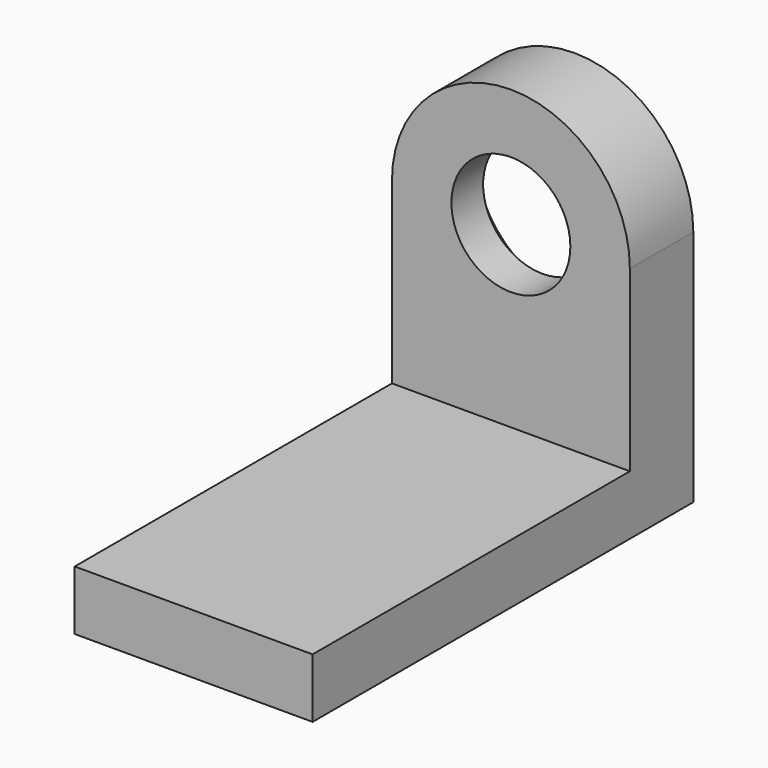
from build123d import *

# Parameters (mm, degrees)
F0_R     = 15
F1_DEPTH = 20
F2_W     = 60
F2_H     = 15
F3_DEPTH = 100
F4_SIZE  = 10


with BuildPart() as f1:
    # F0 (on Front) → F1 (new body)
    with BuildSketch(Plane.XZ):
        with BuildLine():
            Line((-30, -49.717317), (30, -49.717317))
            Line((30, -49.717317), (30, 10.282683))
            ThreePointArc((30, 10.282683), (0, 40.282683), (-30, 10.282683))
            Line((-30, 10.282683), (-30, -49.717317))
        make_face()
        with Locations((0, 10.282683)):
            Circle(F0_R, mode=Mode.SUBTRACT)
    extrude(amount=F1_DEPTH)

    # F2 (on face) → F3 (join)
    with BuildSketch(Plane.XZ.offset(20)):
        with Locations((0, -42.217317)):
            Rectangle(F2_W, F2_H)
    extrude(amount=F3_DEPTH)

    # F4
    f4_edges = [f1.edges().sort_by_distance(p)[0] for p in [
        (-15, 0, 10.282683),
    ]]
    chamfer(f4_edges, length=F4_SIZE)


solid = f1.part
